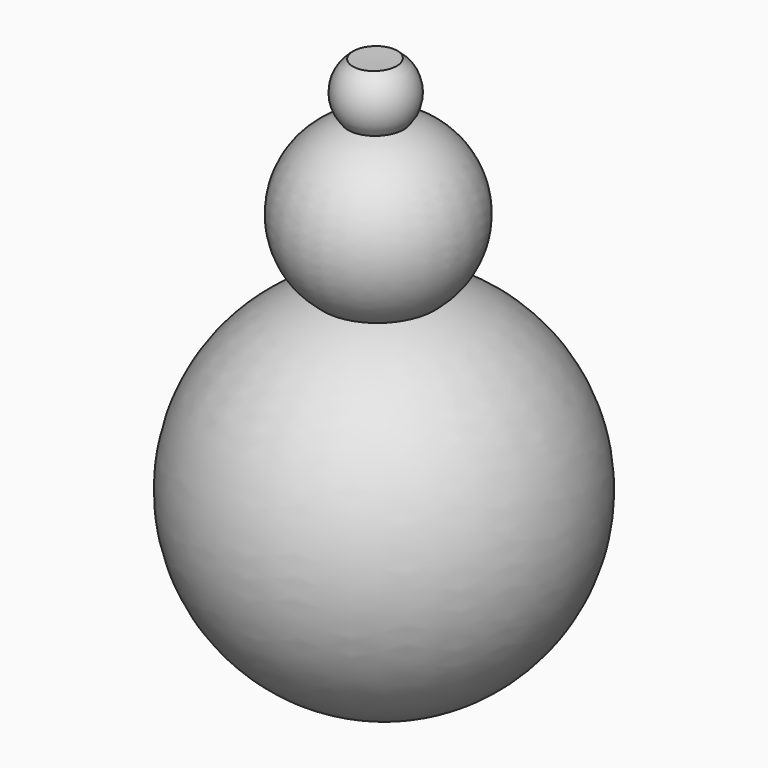
from build123d import *


with BuildPart() as f1:
    # F0 (on Front) → F1 (revolve)
    with BuildSketch(Plane.XZ):
        with BuildLine():
            ThreePointArc((-49.3396003696, 44.5866156315), (-65.2847076426, 25.9685653384), (-55.9490154252, 3.303104975))
            ThreePointArc((-55.9490154252, 3.303104975), (-88.2772685966, -52.6205547112), (-38.8018414378, -94.1507096985))
            Line((-38.8018414378, -94.1507096985), (-38.8018414378, -78.8068398833))
            Line((-38.8018414378, -78.8068398833), (-42.1105287969, 59.3954987917))
            Line((-42.1105287969, 59.3954987917), (-48.0930315029, 59.3954987917))
            ThreePointArc((-48.0930315029, 59.3954987917), (-52.0333398322, 52.2702746701), (-49.3396003696, 44.5866156315))
        make_face()
    revolve(axis=Axis((-40.4561851174, 0, -9.7056705458), (0.0239340346, 0, -0.99971354)))


solid = f1.part
